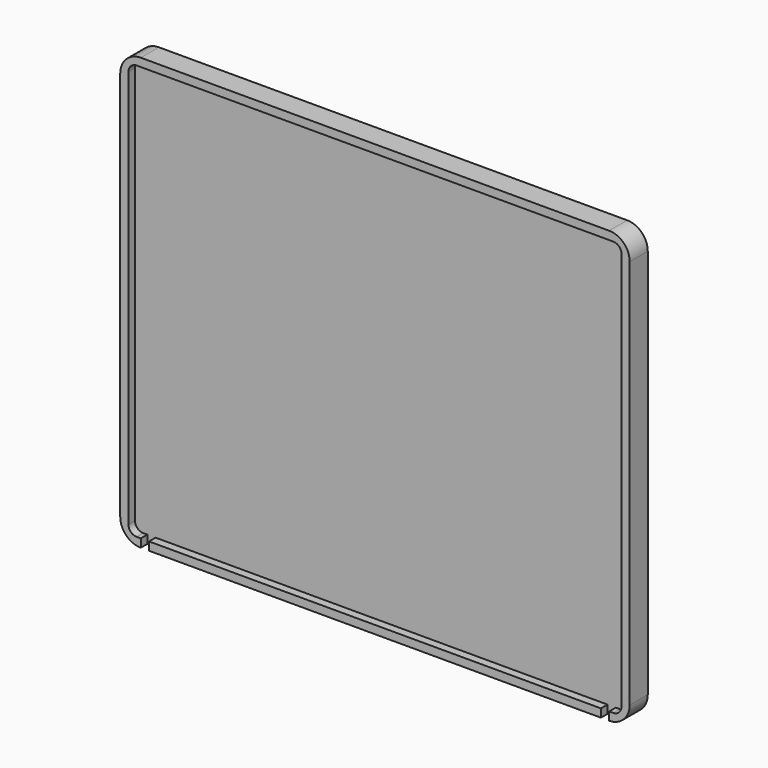
from build123d import *

# Parameters (mm, degrees)
F0_W      = 120
F0_H      = 101
F1_DEPTH  = 4
F0_W_2    = 124
F0_H_2    = 105
F2_DEPTH  = 5
F3_DEPTH  = 0.5
F4_R      = 5
F5_R      = 2
F6_W      = 2
F6_H      = 2
F7_DEPTH  = 1.5
F8_W      = 2
F8_H      = 2
F9_DEPTH  = 1.5
F10_DEPTH = 0.5


with BuildPart() as f1:
    # F0 (on Front) → F1 (new body)
    with BuildSketch(Plane.XZ):
        Rectangle(F0_W, F0_H)
    extrude(amount=F1_DEPTH)

    # F0 (on Front) → F2 (join)
    with BuildSketch(Plane.XZ):
        Rectangle(F0_W_2, F0_H_2)
        Rectangle(F0_W, F0_H, mode=Mode.SUBTRACT)
    extrude(amount=F2_DEPTH)

    # F3 (add): a face of the model
    f3_faces = [f1.faces().sort_by_distance(p)[0] for p in [
        (0, -5, -50.8751615465),
    ]]
    extrude(f3_faces, amount=F3_DEPTH)

    # F4
    f4_edges = [f1.edges().sort_by_distance(p)[0] for p in [
        (62, -2.75, -52.5),
        (-62, -2.75, -52.5),
        (-62, -2.75, 52.5),
        (62, -2.75, 52.5),
    ]]
    fillet(f4_edges, radius=F4_R)

    # F5
    f5_edges = [f1.edges().sort_by_distance(p)[0] for p in [
        (60, -4.75, 50.5),
        (-60, -4.75, -50.5),
        (60, -4.75, -50.5),
        (-60, -4.75, 50.5),
    ]]
    fillet(f5_edges, radius=F5_R)

    # F6 (on face) → F7 (cut)
    with BuildSketch(Plane.XZ.offset(5.5)):
        with Locations((-56, -51.5)):
            Rectangle(F6_W, F6_H)
    extrude(amount=-F7_DEPTH, mode=Mode.SUBTRACT)

    # F8 (on face) → F9 (cut)
    with BuildSketch(Plane.XZ.offset(5.5)):
        with Locations((56, -51.5)):
            Rectangle(F8_W, F8_H)
    extrude(amount=-F9_DEPTH, mode=Mode.SUBTRACT)

    # F10 (cut): a face of the model
    f10_faces = [f1.faces().sort_by_distance(p)[0] for p in [
        (0, -4, -0.0339805967),
    ]]
    extrude(f10_faces, amount=-F10_DEPTH, mode=Mode.SUBTRACT)


solid = f1.part
